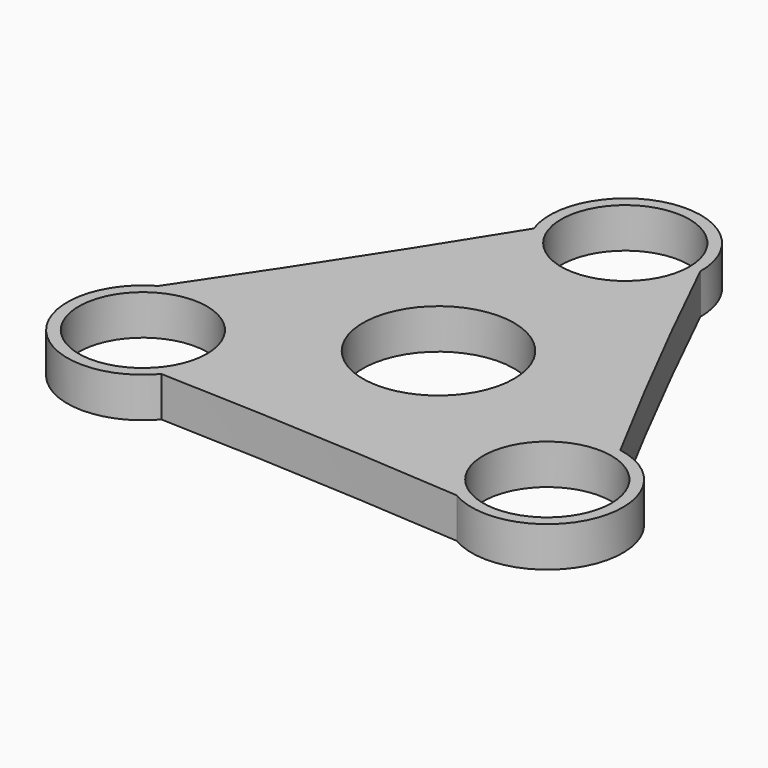
from build123d import *

# Parameters (mm, degrees)
F0_R     = 11.2
F0_R_2   = 13.2
F1_DEPTH = 7


with BuildPart() as f1:
    # F0 (on Top) → F1 (new body)
    with BuildSketch(Plane.XY):
        with BuildLine():
            ThreePointArc((37.670157, -7.397573), (25.171437, 16.489832), (13.199427, 40.645515))
            ThreePointArc((13.199427, 40.645515), (-2.195798, 53.784541), (-12.428593, 36.322099))
            ThreePointArc((-12.428593, 36.322099), (-26.866332, 13.554188), (-41.799763, -8.891718))
            ThreePointArc((-41.799763, -8.891718), (-45.48088, -28.793887), (-25.241564, -28.924526))
            ThreePointArc((-25.241564, -28.924526), (1.694894, -30.04402), (28.600335, -31.753797))
            ThreePointArc((28.600335, -31.753797), (47.676678, -24.990654), (37.670157, -7.397573))
        make_face()
        with Locations((-35.306518, -20.384228)):
            Circle(F0_R, mode=Mode.SUBTRACT)
        with Locations((35.306518, -20.384228)):
            Circle(F0_R, mode=Mode.SUBTRACT)
        Circle(F0_R_2, mode=Mode.SUBTRACT)
        with Locations((0, 40.768456)):
            Circle(F0_R, mode=Mode.SUBTRACT)
    extrude(amount=F1_DEPTH)


solid = f1.part
